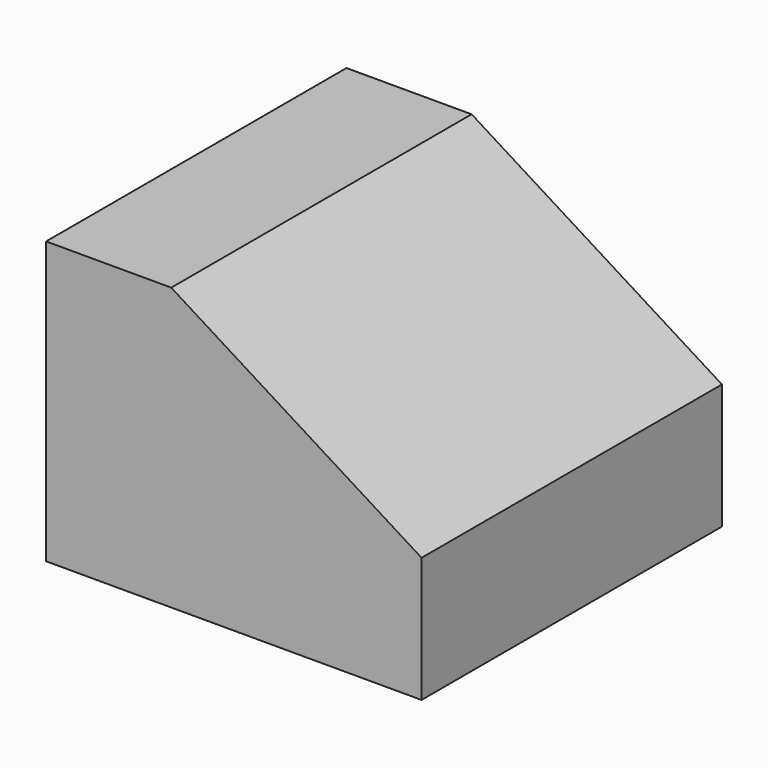
from build123d import *

# Parameters (mm, degrees)
F0_W     = 152.4
F0_H     = 114.3
F1_DEPTH = 152.4
F3_DEPTH = 152.401


with BuildPart() as f1:
    # F0 (on Front) → F1 (new body)
    with BuildSketch(Plane.XZ):
        Rectangle(F0_W, F0_H)
    extrude(amount=F1_DEPTH)

    # F2 (on face) → F3 (cut, through all)
    with BuildSketch(Plane.XZ.offset(152.4)):
        Polygon((76.2, 57.15), (-25.4, 57.15), (76.2, -6.35), align=None)
    extrude(amount=-F3_DEPTH, mode=Mode.SUBTRACT)


solid = f1.part
